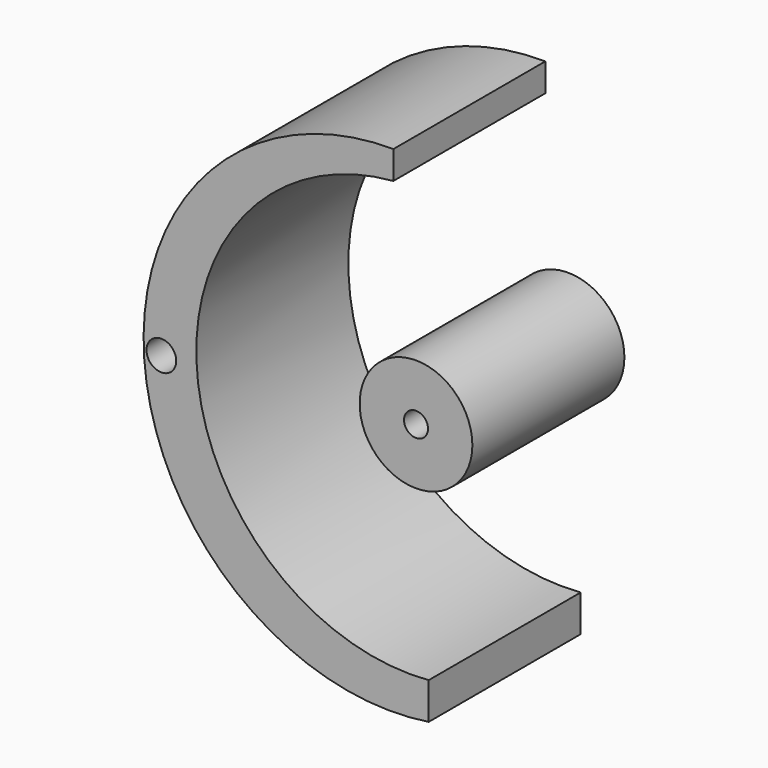
from build123d import *

# Parameters (mm, degrees)
F0_R     = 15.066095
F0_R_2   = 3.207736
F0_R_3   = 3.970722
F1_DEPTH = 50.8


with BuildPart() as f1:
    # F0 (on Front) → F1 (new body)
    with BuildSketch(Plane.XZ):
        with Locations((13.959615, 33.504877)):
            Circle(F0_R)
        with Locations((13.959615, 33.504877)):
            Circle(F0_R_2, mode=Mode.SUBTRACT)
        with BuildLine():
            ThreePointArc((17.343592, -25.600936), (-44.579953, 26.884805), (7.905788, 88.80835))
            Line((7.905788, 88.80835), (7.905788, 96.32007))
            ThreePointArc((7.905788, 96.32007), (-58.696377, 25.338798), (17.343592, -35.423957))
            Line((17.343592, -35.423957), (17.343592, -25.600936))
        make_face()
        with Locations((-54.114059, 27.558934)):
            Circle(F0_R_3, mode=Mode.SUBTRACT)
    extrude(amount=F1_DEPTH)


solid = f1.part
